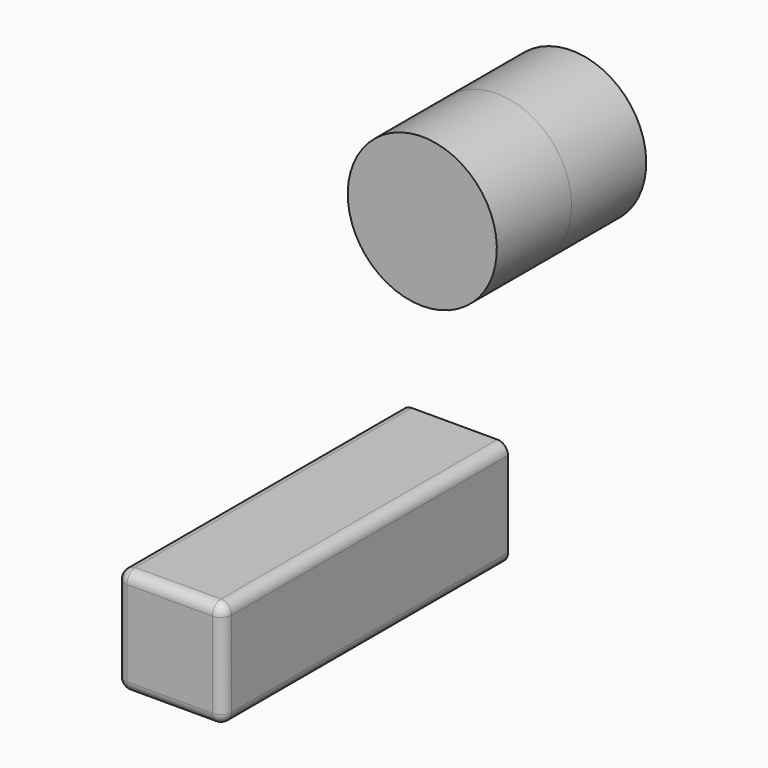
from build123d import *

# Parameters (mm, degrees)
F0_W     = 76.2
F0_H     = 76.2
F1_DEPTH = 254
F2_R     = 7.62
F3_T     = -2.54
F4_W     = 66.5805451572
F4_H     = 53.1675685197
F6_T     = -2.54


with BuildPart() as f1:
    # F0 (on Front) → F1 (new body)
    with BuildSketch(Plane.XZ):
        with Locations((9.4689666241, -38.1)):
            Rectangle(F0_W, F0_H)
    extrude(amount=F1_DEPTH)

    # F2
    f2_edges = [f1.edges().sort_by_distance(p)[0] for p in [
        (9.468967, -254, -76.2),
        (47.568967, -254, -38.1),
        (9.468967, -254, 0),
        (-28.631033, -254, -38.1),
        (-28.631033, -127, -76.2),
        (-28.631033, -127, 0),
        (47.568967, -127, -76.2),
        (47.568967, -127, 0),
    ]]
    fillet(f2_edges, radius=F2_R)

    # F3
    f3_openings = [f1.faces().sort_by_distance(p)[0] for p in [
        (9.468967, 0, -38.1),
    ]]
    offset(amount=F3_T, openings=f3_openings)


with BuildPart() as f5:
    # F4 (on Right) → F5 (revolve)
    with BuildSketch(Plane.YZ):
        with Locations((16.3341406733, 104.2999727651)):
            Rectangle(F4_W, F4_H)
    revolve(axis=Axis((0, 16.3341406733, 130.883757025), (0, 1, 0)))

    # F6
    f6_openings = [f5.faces().sort_by_distance(p)[0] for p in [
        (0, 49.624413, 130.883757),
    ]]
    offset(amount=F6_T, openings=f6_openings)

    # F7: F5 across face


with BuildPart() as f5_1:
    add(f5.part)
    add(f5.part.mirror(Plane(origin=(0, 49.6244132519, 130.883757025), x_dir=(-1, 0, 0), z_dir=(0, 1, 0))))


solid = Compound([f1.part, f5_1.part])
